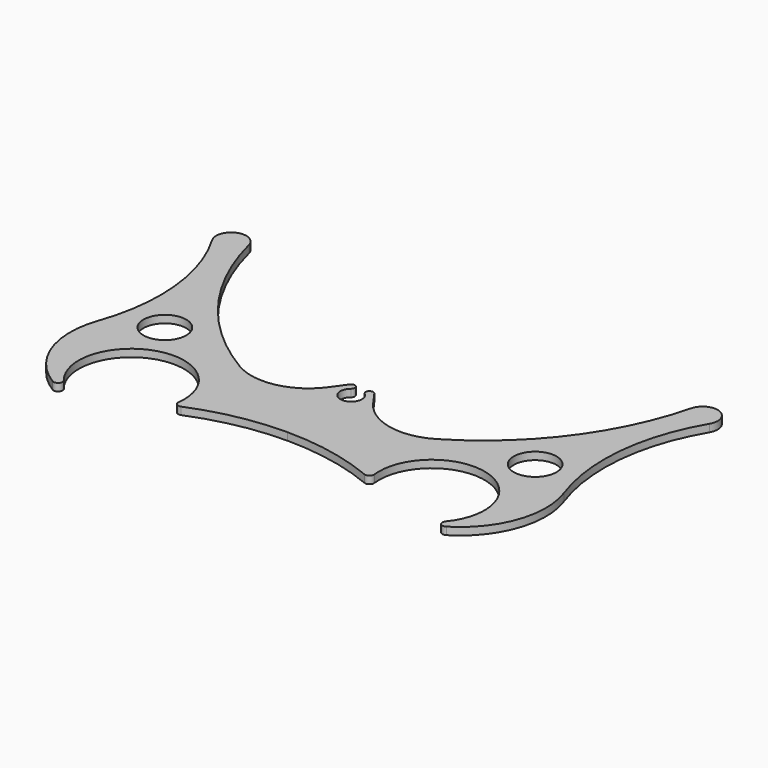
from build123d import *

# Parameters (mm, degrees)
F0_R     = 5.680361
F1_DEPTH = 2


with BuildPart() as f1:
    # F0 (on Top) → F1 (new body)
    with BuildSketch(Plane.XY):
        with BuildLine():
            ThreePointArc((-50.700018, -27.834117), (-43.803158, -5.513251), (-25.977487, -20.614018))
            ThreePointArc((-25.977487, -20.614018), (-25.512167, -21.711811), (-24.329897, -21.866439))
            ThreePointArc((-24.329897, -21.866439), (-12.399792, -18.275148), (0, -17.062743))
            ThreePointArc((0, -17.062743), (12.399792, -18.275148), (24.329897, -21.866439))
            ThreePointArc((24.329897, -21.866439), (25.512167, -21.711811), (25.977487, -20.614018))
            ThreePointArc((25.977487, -20.614018), (43.803158, -5.513251), (50.700018, -27.834117))
            ThreePointArc((50.700018, -27.834117), (50.722441, -29.383312), (52.253748, -29.619127))
            ThreePointArc((52.253748, -29.619127), (61.847493, -17.789412), (61.85599, -2.558456))
            ThreePointArc((61.85599, -2.558456), (59.163097, 19.445198), (66.018319, 40.526432))
            ThreePointArc((66.018319, 40.526432), (64.090258, 46.257839), (58.692644, 43.531631))
            ThreePointArc((58.692644, 43.531631), (46.765532, 18.418872), (26.10074, -0.178791))
            ThreePointArc((26.10074, -0.178791), (15.118337, -1.98013), (5.829269, 4.149406))
            ThreePointArc((5.829269, 4.149406), (4.54346, 5.957874), (3.245114, 7.757362))
            ThreePointArc((3.245114, 7.757362), (1.746597, 7.893626), (1.809422, 6.390239))
            ThreePointArc((1.809422, 6.390239), (2.722854, 3.181586), (0, 1.253924))
            ThreePointArc((0, 1.253924), (-2.722854, 3.181586), (-1.809422, 6.390239))
            ThreePointArc((-1.809422, 6.390239), (-1.746597, 7.893626), (-3.245114, 7.757362))
            ThreePointArc((-3.245114, 7.757362), (-4.54346, 5.957874), (-5.829269, 4.149406))
            ThreePointArc((-5.829269, 4.149406), (-15.118337, -1.98013), (-26.10074, -0.178791))
            ThreePointArc((-26.10074, -0.178791), (-46.765532, 18.418872), (-58.692644, 43.531631))
            ThreePointArc((-58.692644, 43.531631), (-64.090258, 46.257839), (-66.018319, 40.526432))
            ThreePointArc((-66.018319, 40.526432), (-59.163097, 19.445198), (-61.85599, -2.558456))
            ThreePointArc((-61.85599, -2.558456), (-61.847493, -17.789412), (-52.253748, -29.619127))
            ThreePointArc((-52.253748, -29.619127), (-50.722441, -29.383312), (-50.700018, -27.834117))
        make_face()
        with Locations((-49.153749, 3.757342)):
            Circle(F0_R, mode=Mode.SUBTRACT)
        with Locations((49.153749, 3.757342)):
            Circle(F0_R, mode=Mode.SUBTRACT)
    extrude(amount=F1_DEPTH)


solid = f1.part
